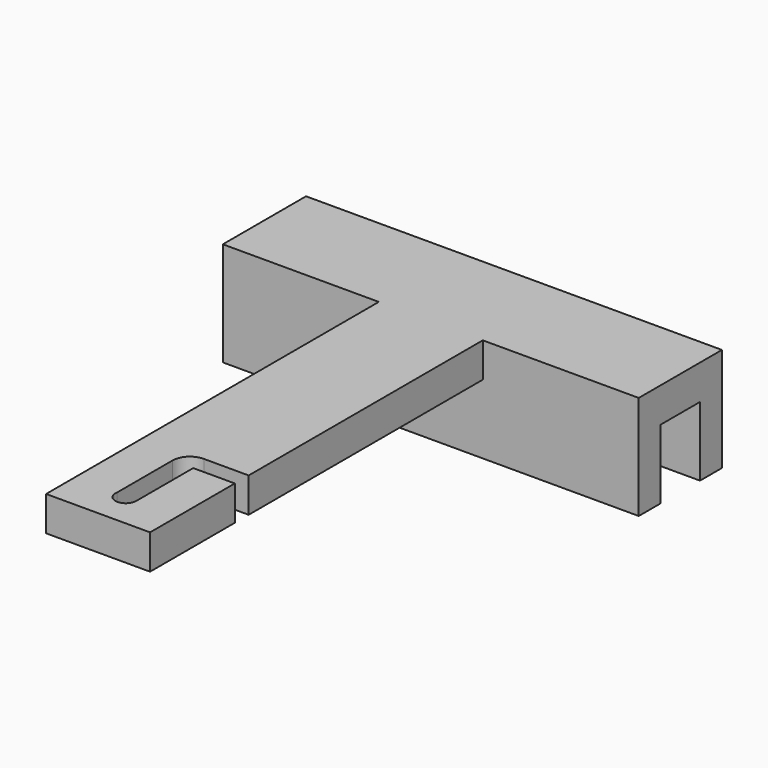
from build123d import *

# Parameters (mm, degrees)
F0_W     = 15
F0_H     = 60
F1_DEPTH = 5
F2_W     = 60
F2_H     = 15
F3_DEPTH = 5
F4_W     = 60
F4_H     = 3.95
F5_DEPTH = 10
F6_R     = 1.5
F7_DEPTH = 25
F9_DEPTH = 25
F10_R    = 2.5


with BuildPart() as f1:
    # F0 (on Top) → F1 (new body)
    with BuildSketch(Plane.XY):
        Rectangle(F0_W, F0_H)
    extrude(amount=F1_DEPTH)

    # F2 (on Top) → F3 (join)
    with BuildSketch(Plane.XY):
        with Locations((0, 37.5)):
            Rectangle(F2_W, F2_H)
    extrude(amount=F3_DEPTH)

    # F4 (on face) → F5 (join)
    with BuildSketch(Plane(origin=(0, 0, 0), x_dir=(1, 0, 0), z_dir=(0, 0, -1))):
        with Locations((0, -43.025)):
            Rectangle(F4_W, F4_H)
        with Locations((0, -31.975)):
            Rectangle(F4_W, F4_H)
    extrude(amount=F5_DEPTH)

    # F6 (on face) → F7 (cut)
    with BuildSketch(Plane.XY.offset(5)):
        with Locations((0, -25)):
            Circle(F6_R)
    extrude(amount=-F7_DEPTH, mode=Mode.SUBTRACT)

    # F8 (on face) → F9 (cut)
    with BuildSketch(Plane.XY.offset(5)):
        with BuildLine():
            Line((-1.47942, -12.217379), (-1.47942, -24.752378))
            ThreePointArc((-1.47942, -24.752378), (0, -23.5), (1.47942, -24.752378))
            Line((1.47942, -24.752378), (1.5, -24.752378))
            Line((1.5, -24.752378), (1.5, -14.717379))
            Line((1.5, -14.717379), (7.5, -14.717379))
            Line((7.5, -14.717379), (7.5, -12.217379))
            Line((7.5, -12.217379), (-1.47942, -12.217379))
        make_face()
    extrude(amount=-F9_DEPTH, mode=Mode.SUBTRACT)

    # F10
    f10_edges = [f1.edges().sort_by_distance(p)[0] for p in [
        (-1.47942, -12.217379, 2.5),
    ]]
    fillet(f10_edges, radius=F10_R)


solid = f1.part
